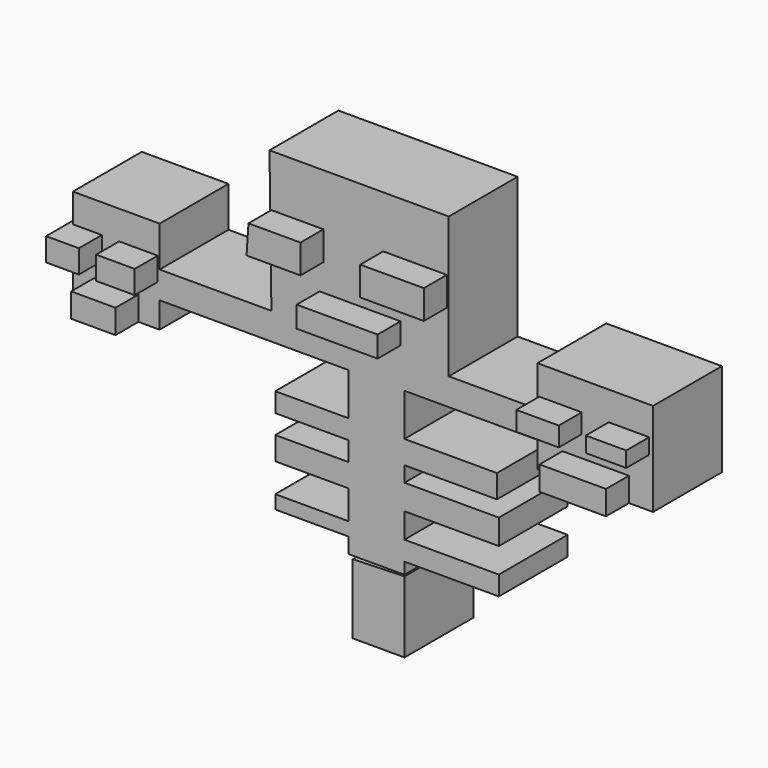
from build123d import *

# Parameters (mm, degrees)
F0_W     = 12.7611942589
F0_H     = 3.3600605093
F0_W_2   = 16.1194035318
F0_H_2   = 4.0320735425
F0_H_3   = 4.0320726112
F0_W_3   = 16.455223551
F0_H_4   = 4.3680798262
F0_H_5   = 2.3520421237
F0_H_6   = 3.3600591123
F1_DEPTH = 15
F3_DEPTH = 15
F4_W     = 11.0820885748
F4_H     = 5.0373133272
F4_W_2   = 14.1044787597
F4_H_2   = 3.6940285936
F4_W_3   = 7.3880590498
F4_H_3   = 3.3582095057
F4_W_4   = 7.0522390306
F4_H_4   = 2.6865676045
F4_W_5   = 11.5858186036
F4_H_5   = 4.1977614164
F4_W_6   = 6.7164190114
F4_H_6   = 4.0298514068
F4_W_7   = 5.7089552283
F4_W_8   = 7.7238809317
F5_DEPTH = 20


with BuildPart() as f1:
    # F0 (on Front) → F1 (new body)
    with BuildSketch(Plane.XZ):
        Polygon((-19.8134332895, 33.7453708053), (-19.4776132703, 9.2350747436), (-5.5410456844, 9.2350747436), (8.3955219015, 9.2350747436), (11.417908594, 9.2350747436), (11.417908594, 33.7453708053), align=None)
        Polygon((-5.5410456844, 9.2350747436), (-19.4776132703, 9.2350747436), (-38.9552265406, 9.2350747436), (-38.9552265406, 4.5128390193), (-6.0447771102, 4.5128390193), (3.6940297578, 4.5128390193), (26.8656723201, 4.5128390193), (26.8656723201, 9.2350747436), (11.417908594, 9.2350747436), (8.3955219015, 9.2350747436), align=None)
        Polygon((-38.9552265406, 4.5128390193), (-38.9552265406, 9.2350747436), (-38.9552265406, 16.273053363), (-54.0671646595, 16.273053363), (-54.0671646595, 0), (-38.9552265406, 0), align=None)
        Polygon((3.6940297578, 4.5128390193), (-6.0447771102, 4.5128390193), (-6.0447771102, -2.8792954981), (-6.0447771102, -6.2393560074), (-6.0447771102, -9.599417448), (-6.0447771102, -13.6314900592), (-6.0447771102, -18.6715833843), (-6.0447771102, -21.023625508), (-6.0447771102, -23.7116739154), (3.6940297578, -23.7116739154), (3.6940297578, -21.6956362128), (3.6940297578, -18.3355771005), (3.6940297578, -13.9674972743), (3.6940297578, -9.599417448), (3.6940297578, -6.9113690406), (3.6940297578, -2.8792954981), align=None)
        Polygon((26.8656723201, 16.273053363), (26.8656723201, 9.2350747436), (26.8656723201, 4.5128390193), (26.8656723201, 0), (47.0149256289, 0), (47.0149256289, 16.273053363), align=None)
        with Locations((-12.4253742397, -4.5593257528)):
            Rectangle(F0_W, F0_H)
        with Locations((11.7537315236, -4.8953322694)):
            Rectangle(F0_W_2, F0_H_2)
        with Locations((-12.4253742397, -11.6154537536)):
            Rectangle(F0_W, F0_H_3)
        with Locations((11.9216415333, -11.7834573612)):
            Rectangle(F0_W_3, F0_H_4)
        with Locations((-12.4253742397, -19.8476044461)):
            Rectangle(F0_W, F0_H_5)
        with Locations((11.9216415333, -20.0156066567)):
            Rectangle(F0_W_3, F0_H_6)
    extrude(amount=F1_DEPTH)

    # F4 (on Front) → F5 (join)
    with BuildSketch(Plane.XZ):
        Polygon((-10.4104485363, 24.6828366071), (-19.4776132703, 24.6828366071), (-19.8134332895, 19.6455232799), (-10.4104485363, 19.6455232799), align=None)
        with Locations((5.5410442874, 22.1641799435)):
            Rectangle(F4_W, F4_H)
        with Locations((-4.0298519889, 13.0970156752)):
            Rectangle(F4_W_2, F4_H_2)
        with Locations((30.8955218643, 9.5708966255)):
            Rectangle(F4_W_3, F4_H_3)
        with Locations((42.8171660751, 9.9067175761)):
            Rectangle(F4_W_4, F4_H_4)
        with Locations((37.0242567733, 2.0988807082)):
            Rectangle(F4_W_5, F4_H_5)
        with Locations((-42.6492560655, 9.235075675)):
            Rectangle(F4_W_6, F4_H_6)
        with Locations((-51.8843308091, 9.235075675)):
            Rectangle(F4_W_7, F4_H_6)
        with Locations((-46.5111965314, 2.0988807082)):
            Rectangle(F4_W_8, F4_H_5)
    extrude(amount=F5_DEPTH)


with BuildPart() as f3:
    # F2 (on Front) → F3 (new body)
    with BuildSketch(Plane.XZ):
        Polygon((3.705548821, -23.9723213017), (-5.3309509531, -24.2547132075), (-5.3309509531, -36.3975055516), (3.705548821, -36.3975055516), align=None)
    extrude(amount=F3_DEPTH)


solid = Compound([f1.part, f3.part])
